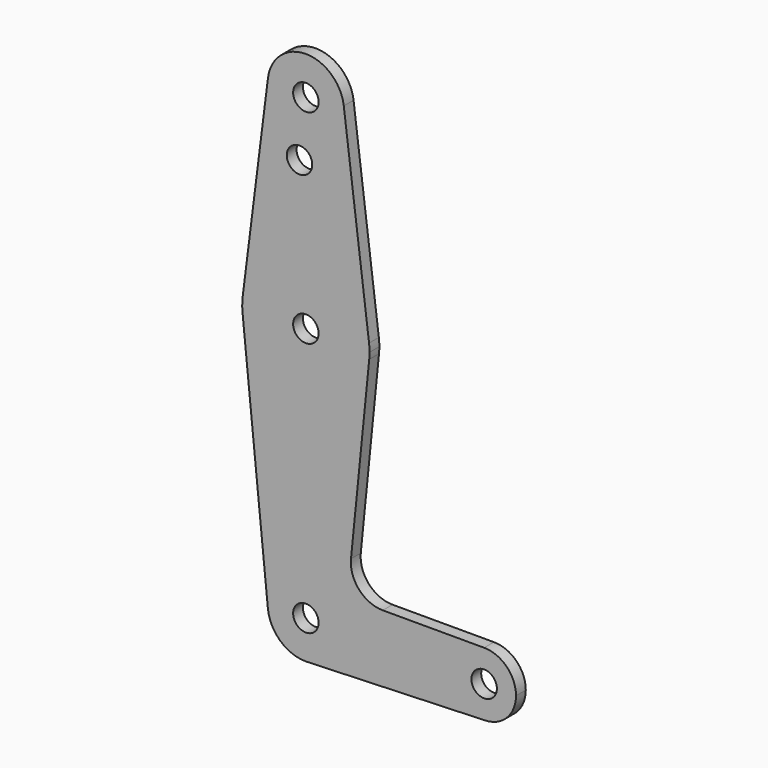
from build123d import *

# Parameters (mm, degrees)
F0_R     = 3.175
F1_DEPTH = 3.048


with BuildPart() as f1:
    # F0 (on Front) → F1 (new body)
    with BuildSketch(Plane.XZ):
        with BuildLine():
            ThreePointArc((15.875, 63.5), (15.843841, 64.494139), (15.750488, 65.484375))
            ThreePointArc((15.750488, 65.484375), (0, 79.375), (-15.750488, 65.484375))
            ThreePointArc((-15.750488, 65.484375), (-15.873744, 63.699705), (-15.795426, 61.9125))
            ThreePointArc((-15.795426, 61.9125), (0, 47.625), (15.795426, 61.9125))
            ThreePointArc((15.795426, 61.9125), (15.855094, 62.705253), (15.875, 63.5))
        make_face()
        with Locations((0, 63.5)):
            Circle(F0_R, mode=Mode.SUBTRACT)
        with BuildLine():
            ThreePointArc((9.450293, 115.490625), (9.506305, 114.896483), (9.525, 114.3))
            ThreePointArc((9.525, 114.3), (-0.596483, 104.793695), (-9.450293, 115.490625))
            Line((-9.450293, 115.490625), (-15.750488, 65.484375))
            ThreePointArc((-15.750488, 65.484375), (0, 79.375), (15.750488, 65.484375))
            Line((15.750488, 65.484375), (9.450293, 115.490625))
        make_face()
        with Locations((-1.5875, 100.0252)):
            Circle(F0_R, mode=Mode.SUBTRACT)
        with BuildLine():
            ThreePointArc((-9.450293, 115.490625), (-0.596483, 104.793695), (9.525, 114.3))
            ThreePointArc((9.525, 114.3), (9.506305, 114.896483), (9.450293, 115.490625))
            ThreePointArc((9.450293, 115.490625), (0, 123.825), (-9.450293, 115.490625))
        make_face()
        with Locations((0, 114.3)):
            Circle(F0_R, mode=Mode.SUBTRACT)
        with BuildLine():
            ThreePointArc((15.795426, 61.9125), (0, 47.625), (-15.795426, 61.9125))
            Line((-15.795426, 61.9125), (-9.477255, -0.9525))
            ThreePointArc((-9.477255, -0.9525), (-0.476848, 9.513056), (9.525, 0))
            ThreePointArc((9.525, 0), (6.970557, -6.491299), (0.677344, -9.500886))
            Line((0.677344, -9.500886), (44.732405, -7.932475))
            ThreePointArc((44.732405, -7.932475), (36.513756, -0.141225), (44.45, 7.9375))
            Line((44.45, 7.9375), (19.160011, 7.9375))
            ThreePointArc((19.160011, 7.9375), (13.263985, 10.554544), (11.249662, 16.68272))
            Line((11.249662, 16.68272), (15.795426, 61.9125))
        make_face()
        with BuildLine():
            ThreePointArc((9.525, 0), (-0.476848, 9.513056), (-9.477255, -0.9525))
            ThreePointArc((-9.477255, -0.9525), (-6.389564, -7.063929), (0, -9.525))
            Line((0, -9.525), (0.677344, -9.500886))
            ThreePointArc((0.677344, -9.500886), (6.970557, -6.491299), (9.525, 0))
        make_face()
        Circle(F0_R, mode=Mode.SUBTRACT)
        with BuildLine():
            ThreePointArc((52.3875, 0), (50.06266, 5.61266), (44.45, 7.9375))
            ThreePointArc((44.45, 7.9375), (36.513756, -0.141225), (44.732405, -7.932475))
            ThreePointArc((44.732405, -7.932475), (50.161633, -5.51191), (52.3875, 0))
        make_face()
        with Locations((44.45, 0)):
            Circle(F0_R, mode=Mode.SUBTRACT)
    extrude(amount=-F1_DEPTH)


solid = f1.part
